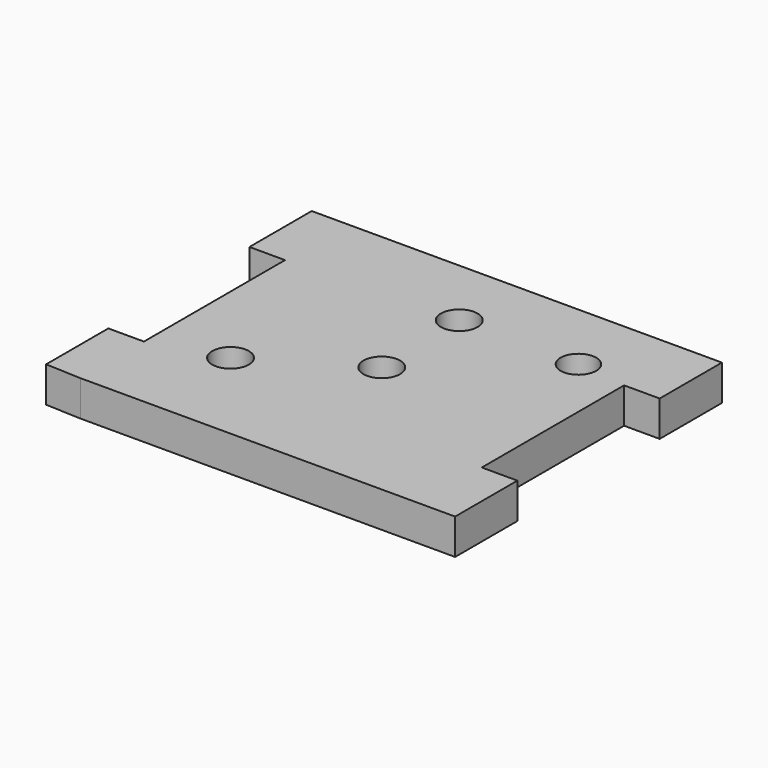
from build123d import *

# Parameters (mm, degrees)
F0_R     = 1.65
F0_R_2   = 1.6
F1_DEPTH = 3.2


with BuildPart() as f1:
    # F0 (on Top) → F1 (new body)
    with BuildSketch(Plane.XY):
        Polygon((-19.510088, 4.530542), (-50.010088, 4.530542), (-53.210088, 4.530542), (-53.210088, -2.469458), (-50.010088, -2.469458), (-50.010088, -18.335517), (-53.210088, -18.335517), (-53.210088, -25.335517), (-50.010088, -25.469458), (-19.510088, -25.469458), (-16.310088, -25.469458), (-16.310088, -18.469458), (-19.510088, -18.469458), (-19.510088, -2.469458), (-16.310088, -2.469458), (-16.310088, 4.530542), align=None)
        with Locations((-43.710088, -16.469458)):
            Circle(F0_R, mode=Mode.SUBTRACT)
        with Locations((-34.510088, -10.966575)):
            Circle(F0_R, mode=Mode.SUBTRACT)
        with Locations((-34.737864, -1.969458)):
            Circle(F0_R, mode=Mode.SUBTRACT)
        with Locations((-24.019817, -1.966214)):
            Circle(F0_R_2, mode=Mode.SUBTRACT)
    extrude(amount=F1_DEPTH)


solid = f1.part
